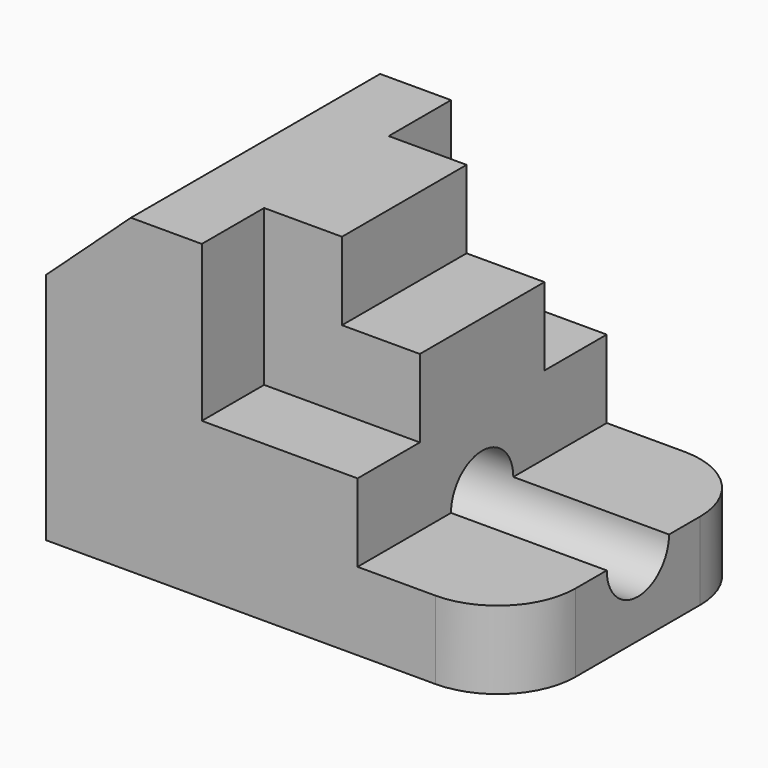
from build123d import *

# Parameters (mm, degrees)
F1_DEPTH = 25.4
F2_DEPTH = 12.7
F3_R     = 6.35
F4_DEPTH = 76.201
F5_R     = 12.7


with BuildPart() as f1:
    # F0 (on Front) → F1 (new body, symmetric)
    with BuildSketch(Plane.XZ):
        Polygon((0, 38.1), (0, 0), (76.2, 0), (76.2, 12.7), (50.8, 12.7), (50.8, 25.4), (25.4, 25.4), (25.4, 50.8), (13.832867, 50.8), align=None)
    extrude(amount=F1_DEPTH, both=True)

    # F0 (on Front) → F2 (join, symmetric)
    with BuildSketch(Plane.XZ):
        Polygon((38.1, 50.8), (25.4, 50.8), (25.4, 25.4), (50.8, 25.4), (50.8, 38.1), (38.1, 38.1), align=None)
    extrude(amount=F2_DEPTH, both=True)

    # F3 (on face) → F4 (cut, through all)
    with BuildSketch(Plane(origin=(0, 0, 0), x_dir=(0, -1, 0), z_dir=(-1, 0, 0))):
        with Locations((0, 12.7)):
            Circle(F3_R)
    extrude(amount=-F4_DEPTH, mode=Mode.SUBTRACT)

    # F5
    f5_edges = [f1.edges().sort_by_distance(p)[0] for p in [
        (76.2, 25.4, 6.35),
        (76.2, -25.4, 6.35),
    ]]
    fillet(f5_edges, radius=F5_R)


solid = f1.part
